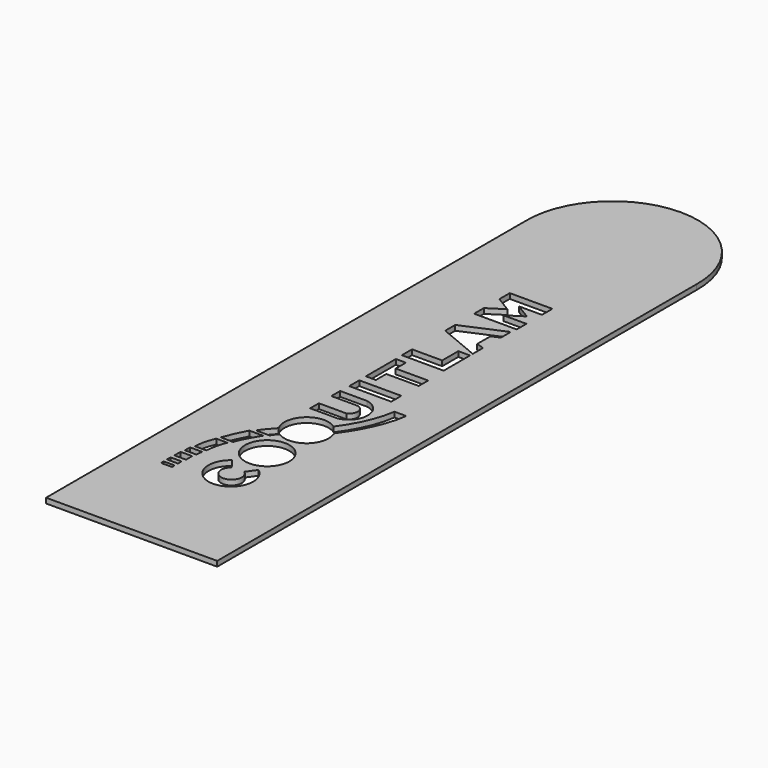
from build123d import *

# Parameters (mm, degrees)
F0_W     = 2.581628
F0_H     = 0.791415
F0_W_2   = 2.597917
F0_H_2   = 1.066693
F0_W_3   = 2.718348
F0_H_3   = 1.806498
F0_R     = 5.178657
F0_W_4   = 9.823907
F0_H_4   = 2.942012
F1_DEPTH = 1.2


with BuildPart() as f1:
    # F0 (on Top) → F1 (new body)
    with BuildSketch(Plane.XY):
        with BuildLine():
            Line((-6.29297, -85.910204), (-6.29297, 54.089796))
            ThreePointArc((-6.29297, 54.089796), (-26.288129, 74.529796), (-46.283289, 54.089796))
            Line((-46.283289, 54.089796), (-46.283289, -85.910204))
            Line((-46.283289, -85.910204), (-6.29297, -85.910204))
        make_face()
        with Locations((-37.201445, -61.692785)):
            Rectangle(F0_W, F0_H, mode=Mode.SUBTRACT)
        with Locations((-37.210507, -59.800263)):
            Rectangle(F0_W_2, F0_H_2, mode=Mode.SUBTRACT)
        with Locations((-37.081471, -57.331383)):
            Rectangle(F0_W_3, F0_H_3, mode=Mode.SUBTRACT)
        with BuildLine():
            Line((-35.481431, -55.46467), (-38.199779, -55.46467))
            Line((-38.199779, -55.46467), (-38.199779, -53.967856))
            Line((-38.199779, -53.967856), (-35.309382, -53.967856))
            add(Edge.make_bspline(
                [(-35.309382, -53.967856), (-35.429817, -54.260336), (-35.481431, -54.982934), (-35.481431, -55.46467)],
                knots=[0, 0, 0, 0, 1.50667, 1.50667, 1.50667, 1.50667], degree=3))
        make_face(mode=Mode.SUBTRACT)
        with BuildLine():
            Line((-35.155974, -53.070802), (-37.735078, -53.070802))
            add(Edge.make_bspline(
                [(-36.615845, -48.277561), (-37.310701, -49.868666), (-37.715785, -51.382598), (-37.735078, -53.070802)],
                knots=[0, 0, 0, 0, 4.922179, 4.922179, 4.922179, 4.922179], degree=3))
            Line((-36.615845, -48.277561), (-33.963747, -48.277561))
            add(Edge.make_bspline(
                [(-33.963747, -48.277561), (-34.742344, -49.834754), (-34.912664, -51.440611), (-35.155974, -53.070802)],
                knots=[0, 0, 0, 0, 4.939288, 4.939288, 4.939288, 4.939288], degree=3))
        make_face(mode=Mode.SUBTRACT)
        with BuildLine():
            add(Edge.make_bspline(
                [(-33.896647, -42.036764), (-34.845561, -43.812942), (-35.697155, -45.613449), (-36.281101, -47.389627)],
                knots=[0, 0, 0, 0, 5.859928, 5.859928, 5.859928, 5.859928], degree=3))
            Line((-33.896647, -42.036764), (-30.660599, -42.036764))
            add(Edge.make_bspline(
                [(-30.660599, -42.036764), (-31.779833, -43.983262), (-32.801744, -45.516126), (-33.38569, -47.389627)],
                knots=[0, 0, 0, 0, 6.006601, 6.006601, 6.006601, 6.006601], degree=3))
            Line((-33.38569, -47.389627), (-36.281101, -47.389627))
        make_face(mode=Mode.SUBTRACT)
        with BuildLine():
            Line((-29.023839, -53.121161), (-27.305199, -55.41268))
            ThreePointArc((-27.305199, -55.41268), (-25.748689, -59.722554), (-24.440799, -55.330839))
            Line((-24.440799, -55.330839), (-22.865377, -53.121161))
            ThreePointArc((-22.865377, -53.121161), (-25.944608, -62.574254), (-29.023839, -53.121161))
        make_face(mode=Mode.SUBTRACT)
        with Locations((-25.738571, -46.987876)):
            Circle(F0_R, mode=Mode.SUBTRACT)
        with BuildLine():
            add(Edge.make_bspline(
                [(-17.875146, -19.652883), (-18.462803, -23.768686), (-20.271629, -27.596692), (-22.875761, -31.155674)],
                knots=[0, 0, 0, 0, 12.542741, 12.542741, 12.542741, 12.542741], degree=3))
            Line((-17.875146, -19.652883), (-15.126339, -19.652883))
            add(Edge.make_bspline(
                [(-15.126339, -19.652883), (-15.713997, -24.289511), (-18.029595, -29.035197), (-21.1288, -33.232335)],
                knots=[0, 0, 0, 0, 14.846921, 14.846921, 14.846921, 14.846921], degree=3))
            ThreePointArc((-21.1288, -33.232335), (-20.771988, -34.290864), (-20.651166, -35.401359))
            ThreePointArc((-20.651166, -35.401359), (-23.323252, -39.924203), (-28.57408, -39.766207))
            add(Edge.make_bspline(
                [(-28.57408, -39.766207), (-29.019574, -40.191628), (-29.530527, -40.629588), (-29.760677, -41.22673)],
                knots=[0, 0, 0, 0, 1.881791, 1.881791, 1.881791, 1.881791], degree=3))
            Line((-29.760677, -41.22673), (-33.001378, -41.22673))
            add(Edge.make_bspline(
                [(-30.314623, -37.934667), (-31.40403, -39.169718), (-32.42594, -40.264621), (-33.001378, -41.22673)],
                knots=[0, 0, 0, 0, 4.249274, 4.249274, 4.249274, 4.249274], degree=3))
            ThreePointArc((-30.314623, -37.934667), (-29.293093, -31.584655), (-22.875761, -31.155674))
        make_face(mode=Mode.SUBTRACT)
        with BuildLine():
            Line((-30.725121, -25.672881), (-24.253521, -25.672881))
            ThreePointArc((-24.253521, -25.672881), (-23.118539, -23.782431), (-24.45812, -22.031))
            Line((-24.45812, -22.031), (-30.725121, -22.031))
            Line((-30.725121, -22.031), (-30.725121, -19.453041))
            Line((-30.725121, -19.453041), (-24.45812, -19.453041))
            ThreePointArc((-24.45812, -19.453041), (-20.744201, -23.754778), (-24.253521, -28.224992))
            Line((-24.253521, -28.224992), (-30.725121, -28.224992))
            Line((-30.725121, -28.224992), (-30.725121, -25.672881))
        make_face(mode=Mode.SUBTRACT)
        with Locations((-25.720231, -15.450788)):
            Rectangle(F0_W_4, F0_H_4, mode=Mode.SUBTRACT)
        Polygon((-30.681022, -11.994411), (-30.681022, -3.235085), (-28.346451, -3.235186), (-28.346451, -6.20359), (-20.755121, -6.20359), (-20.755121, -8.953013), (-28.346451, -8.953013), (-28.346451, -11.994411), align=None, mode=Mode.SUBTRACT)
        Polygon((-30.762237, -1.389609), (-30.762237, 1.597551), (-23.723995, 1.597551), (-23.723995, 6.303352), (-20.982355, 6.303352), (-20.982355, -1.389609), align=None, mode=Mode.SUBTRACT)
        Polygon((-30.632185, 14.041182), (-20.982355, 18.198028), (-20.982355, 15.322189), (-22.808162, 14.535688), (-22.808162, 10.689207), (-20.982355, 10.095867), (-20.982355, 7.108707), (-30.632185, 11.118867), align=None, mode=Mode.SUBTRACT)
        Polygon((-20.763781, 22.507036), (-20.763781, 19.669064), (-30.717358, 19.669064), (-30.717358, 22.507036), (-27.090734, 24.833532), (-30.717358, 27.049802), (-30.717358, 30.087957), (-20.763781, 30.087957), (-20.763781, 27.049802), (-26.145658, 27.049802), (-22.519033, 24.833532), (-26.145658, 22.507036), align=None, mode=Mode.SUBTRACT)
    extrude(amount=F1_DEPTH)


solid = f1.part
